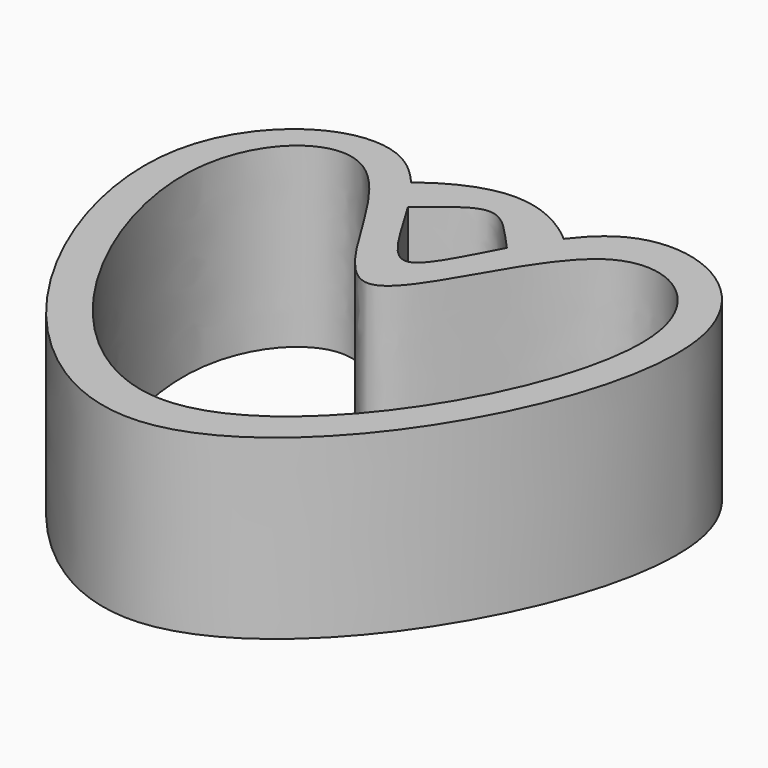
from build123d import *

# Parameters (mm, degrees)
F1_DEPTH = 5
F2_DEPTH = 5


with BuildPart() as f1:
    # F0 (on Top) → F1 (new body)
    with BuildSketch(Plane.XY):
        with BuildLine():
            add(Edge.make_bspline(
                [(0, 4.1458761205), (0.4251728121, 4.1469714189), (0.8223929175, 5.0606502095), (1.3531749, 6.0265546593)],
                knots=[0, 0, 0, 0, 0.0765595149, 0.0765595149, 0.0765595149, 0.0765595149], degree=3))
            add(Edge.make_bspline(
                [(-1.5634586702, 6.1805757618), (-0.9330409116, 5.1694999873), (-0.4508079304, 4.1447147827), (0, 4.1458761205)],
                knots=[0.9188244509, 0.9188244509, 0.9188244509, 0.9188244509, 1, 1, 1, 1], degree=3))
            add(Edge.make_bspline(
                [(-2.2471202075, 7.1480078623), (-1.9999117313, 6.8526730124), (-1.7734632609, 6.5173850463), (-1.5634586702, 6.1805757618)],
                knots=[0.8917832743, 0.8917832743, 0.8917832743, 0.8917832743, 0.9188244509, 0.9188244509, 0.9188244509, 0.9188244509], degree=3))
            add(Edge.make_bspline(
                [(2.0587463653, 7.1480078623), (2.3102169642, 7.4789881542), (3.9352571105, 9.1579500365), (10.6718271376, 6.0896679143), (0.0174467047, -12.3922555257), (-10.3794205218, 5.354508724), (-4.1956157642, 9.0408248225), (-2.5131929277, 7.465879434), (-2.2471202075, 7.1480078623)],
                knots=[0.1069595135, 0.1069595135, 0.1069595135, 0.1069595135, 0.1360278888, 0.2756819795, 0.5011998203, 0.7230047753, 0.8626786112, 0.8917832743, 0.8917832743, 0.8917832743, 0.8917832743], degree=3))
            add(Edge.make_bspline(
                [(1.3531749, 6.0265546593), (1.5639360512, 6.4100927984), (1.7957558897, 6.8018653518), (2.0587463653, 7.1480078623)],
                knots=[0.0765595149, 0.0765595149, 0.0765595149, 0.0765595149, 0.1069595135, 0.1069595135, 0.1069595135, 0.1069595135], degree=3))
        make_face()
        with BuildLine():
            add(Edge.make_bspline(
                [(0, 2.7998123893), (1.0340989918, 2.7791406676), (2.7557970722, 8.8582789448), (8.9245705944, 5.1398418843), (-0.0594070879, -10.2722849706), (-8.5444707281, 4.6876552471), (-3.1236585147, 9.1828392806), (-1.057798358, 2.8209578633), (0, 2.7998123893)],
                knots=[0, 0, 0, 0, 0.1531088486, 0.27850369, 0.4996783225, 0.7185160732, 0.8433822197, 1, 1, 1, 1], degree=3))
        make_face(mode=Mode.SUBTRACT)
        with BuildLine():
            add(Edge.make_bspline(
                [(-1.5634586702, 6.1805757618), (-1.0298012679, 6.5793822208), (0.0361797885, 7.7721255402), (0.9136382907, 6.471155864), (1.3531749, 6.0265546593)],
                knots=[0, 0, 0, 0, 0.5056378611, 1, 1, 1, 1], degree=3))
            add(Edge.make_bspline(
                [(1.3531749, 6.0265546593), (1.5639360512, 6.4100927984), (1.7957558897, 6.8018653518), (2.0587463653, 7.1480078623)],
                knots=[0.0765595149, 0.0765595149, 0.0765595149, 0.0765595149, 0.1069595135, 0.1069595135, 0.1069595135, 0.1069595135], degree=3))
            add(Edge.make_bspline(
                [(-2.2471202075, 7.1480078623), (-1.5414069401, 7.7049818886), (-0.0003649889, 8.3928342759), (1.4313487957, 7.6905926173), (2.0587463653, 7.1480078623)],
                knots=[0, 0, 0, 0, 0.5093201493, 1, 1, 1, 1], degree=3))
            add(Edge.make_bspline(
                [(-2.2471202075, 7.1480078623), (-1.9999117313, 6.8526730124), (-1.7734632609, 6.5173850463), (-1.5634586702, 6.1805757618)],
                knots=[0.8917832743, 0.8917832743, 0.8917832743, 0.8917832743, 0.9188244509, 0.9188244509, 0.9188244509, 0.9188244509], degree=3))
        make_face()
    extrude(amount=F1_DEPTH)

    # F0 (on Top) → F2 (join)
    with BuildSketch(Plane.XY):
        with BuildLine():
            add(Edge.make_bspline(
                [(0, 4.1458761205), (0.4251728121, 4.1469714189), (0.8223929175, 5.0606502095), (1.3531749, 6.0265546593)],
                knots=[0, 0, 0, 0, 0.0765595149, 0.0765595149, 0.0765595149, 0.0765595149], degree=3))
            add(Edge.make_bspline(
                [(-1.5634586702, 6.1805757618), (-0.9330409116, 5.1694999873), (-0.4508079304, 4.1447147827), (0, 4.1458761205)],
                knots=[0.9188244509, 0.9188244509, 0.9188244509, 0.9188244509, 1, 1, 1, 1], degree=3))
            add(Edge.make_bspline(
                [(-2.2471202075, 7.1480078623), (-1.9999117313, 6.8526730124), (-1.7734632609, 6.5173850463), (-1.5634586702, 6.1805757618)],
                knots=[0.8917832743, 0.8917832743, 0.8917832743, 0.8917832743, 0.9188244509, 0.9188244509, 0.9188244509, 0.9188244509], degree=3))
            add(Edge.make_bspline(
                [(2.0587463653, 7.1480078623), (2.3102169642, 7.4789881542), (3.9352571105, 9.1579500365), (10.6718271376, 6.0896679143), (0.0174467047, -12.3922555257), (-10.3794205218, 5.354508724), (-4.1956157642, 9.0408248225), (-2.5131929277, 7.465879434), (-2.2471202075, 7.1480078623)],
                knots=[0.1069595135, 0.1069595135, 0.1069595135, 0.1069595135, 0.1360278888, 0.2756819795, 0.5011998203, 0.7230047753, 0.8626786112, 0.8917832743, 0.8917832743, 0.8917832743, 0.8917832743], degree=3))
            add(Edge.make_bspline(
                [(1.3531749, 6.0265546593), (1.5639360512, 6.4100927984), (1.7957558897, 6.8018653518), (2.0587463653, 7.1480078623)],
                knots=[0.0765595149, 0.0765595149, 0.0765595149, 0.0765595149, 0.1069595135, 0.1069595135, 0.1069595135, 0.1069595135], degree=3))
        make_face()
        with BuildLine():
            add(Edge.make_bspline(
                [(0, 2.7998123893), (1.0340989918, 2.7791406676), (2.7557970722, 8.8582789448), (8.9245705944, 5.1398418843), (-0.0594070879, -10.2722849706), (-8.5444707281, 4.6876552471), (-3.1236585147, 9.1828392806), (-1.057798358, 2.8209578633), (0, 2.7998123893)],
                knots=[0, 0, 0, 0, 0.1531088486, 0.27850369, 0.4996783225, 0.7185160732, 0.8433822197, 1, 1, 1, 1], degree=3))
        make_face(mode=Mode.SUBTRACT)
        with BuildLine():
            add(Edge.make_bspline(
                [(-1.5634586702, 6.1805757618), (-1.0298012679, 6.5793822208), (0.0361797885, 7.7721255402), (0.9136382907, 6.471155864), (1.3531749, 6.0265546593)],
                knots=[0, 0, 0, 0, 0.5056378611, 1, 1, 1, 1], degree=3))
            add(Edge.make_bspline(
                [(1.3531749, 6.0265546593), (1.5639360512, 6.4100927984), (1.7957558897, 6.8018653518), (2.0587463653, 7.1480078623)],
                knots=[0.0765595149, 0.0765595149, 0.0765595149, 0.0765595149, 0.1069595135, 0.1069595135, 0.1069595135, 0.1069595135], degree=3))
            add(Edge.make_bspline(
                [(-2.2471202075, 7.1480078623), (-1.5414069401, 7.7049818886), (-0.0003649889, 8.3928342759), (1.4313487957, 7.6905926173), (2.0587463653, 7.1480078623)],
                knots=[0, 0, 0, 0, 0.5093201493, 1, 1, 1, 1], degree=3))
            add(Edge.make_bspline(
                [(-2.2471202075, 7.1480078623), (-1.9999117313, 6.8526730124), (-1.7734632609, 6.5173850463), (-1.5634586702, 6.1805757618)],
                knots=[0.8917832743, 0.8917832743, 0.8917832743, 0.8917832743, 0.9188244509, 0.9188244509, 0.9188244509, 0.9188244509], degree=3))
        make_face()
    extrude(amount=F2_DEPTH)


solid = f1.part
